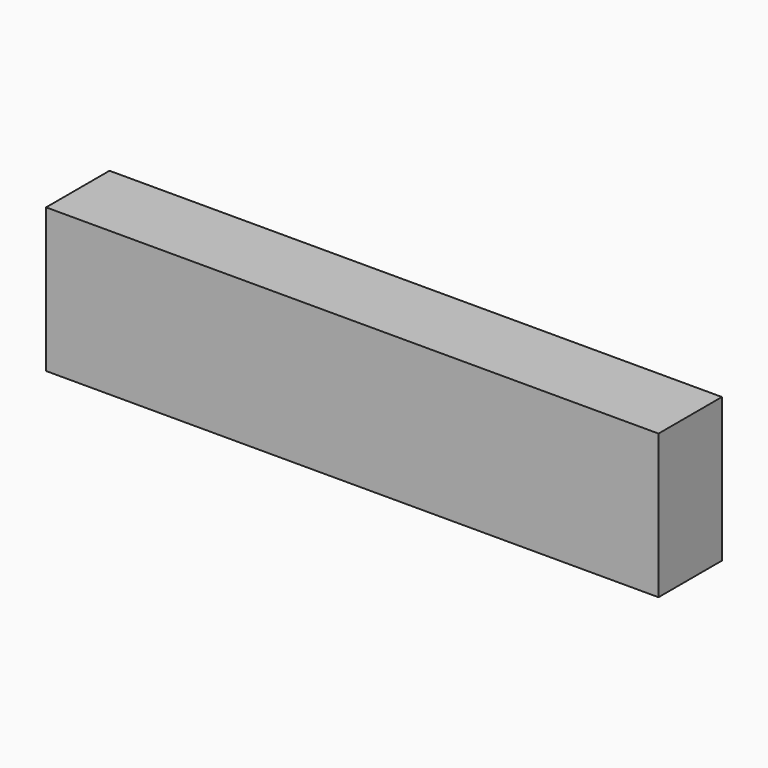
from build123d import *

# Parameters (mm, degrees)
F0_W     = 10
F0_H     = 8
F1_DEPTH = 170


with BuildPart() as f1:
    # F0 (on Right) → F1 (new body)
    with BuildSketch(Plane.YZ):
        with Locations((-25.646479, 59.875974)):
            Rectangle(F0_W, F0_H)
        Polygon((-8.646479, 67.875974), (-30.646479, 67.875974), (-30.646479, 63.875974), (-20.646479, 63.875974), (-20.646479, 55.875974), (-30.646479, 55.875974), (-30.646479, 27.875974), (-8.646479, 27.875974), align=None)
    extrude(amount=F1_DEPTH)


solid = f1.part
